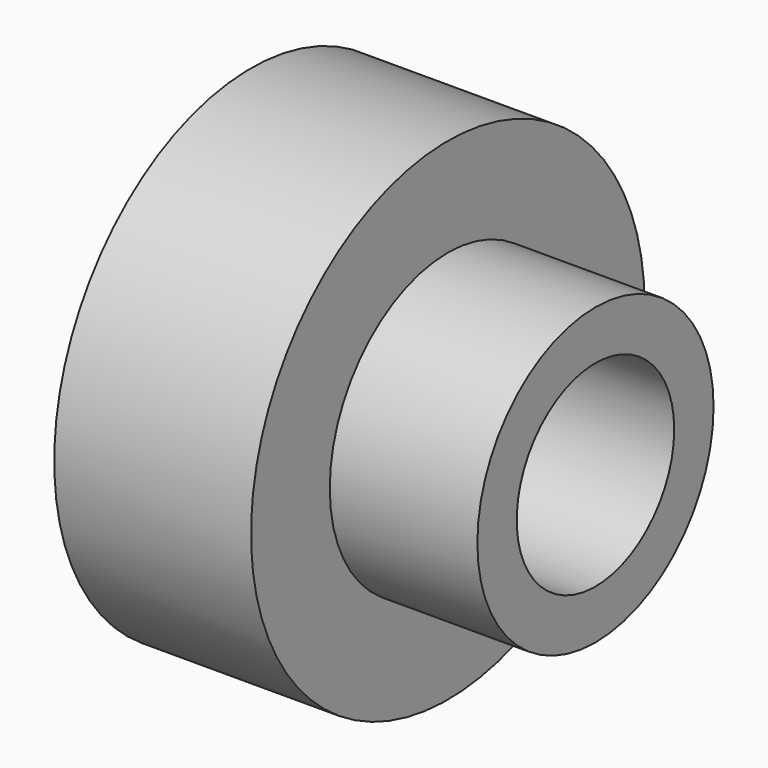
from build123d import *

# Parameters (mm, degrees)
F0_R     = 31.75
F1_DEPTH = 25.4
F2_R     = 19.05
F3_DEPTH = 19.05
F4_R     = 12.7
F5_DEPTH = 98.044


with BuildPart() as f1:
    # F0 (on Right) → F1 (new body)
    with BuildSketch(Plane.YZ):
        Circle(F0_R)
    extrude(amount=F1_DEPTH)

    # F2 (on face) → F3 (join)
    with BuildSketch(Plane.YZ.offset(25.4)):
        Circle(F2_R)
    extrude(amount=F3_DEPTH)

    # F4 (on face) → F5 (cut)
    with BuildSketch(Plane.YZ.offset(44.45)):
        Circle(F4_R)
    extrude(amount=-F5_DEPTH, mode=Mode.SUBTRACT)


solid = f1.part
